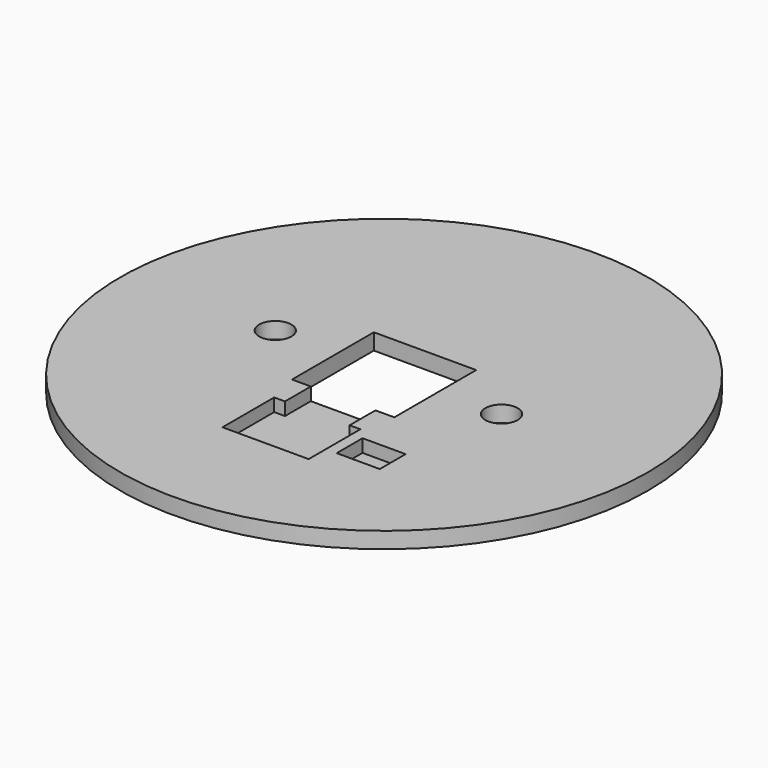
from build123d import *

# Parameters (mm, degrees)
F0_R     = 24.5
F0_W     = 4
F0_H     = 3
F0_R_2   = 1.5
F0_W_2   = 6
F1_DEPTH = 0.3
F2_DEPTH = 1.5


with BuildPart() as f1:
    # F0 (on Top) → F1 (new body)
    with BuildSketch(Plane.XY):
        Circle(F0_R)
        Polygon((-4.75, -4.75), (-4.75, 4.75), (4.75, 4.75), (4.75, -4.75), (3, -4.75), (3, -7.75), (4, -7.75), (4, -13.75), (-4, -13.75), (-4, -7.75), (-3, -7.75), (-3, -4.75), align=None, mode=Mode.SUBTRACT)
        with Locations((7, -10.25)):
            Rectangle(F0_W, F0_H, mode=Mode.SUBTRACT)
        with Locations((-10.5, 0.5)):
            Circle(F0_R_2, mode=Mode.SUBTRACT)
        with Locations((10.5, 0.5)):
            Circle(F0_R_2, mode=Mode.SUBTRACT)
        with Locations((7, -10.25)):
            Rectangle(F0_W, F0_H)
        Polygon((3, -7.75), (-3, -7.75), (-4, -7.75), (-4, -13.75), (4, -13.75), (4, -7.75), align=None)
        with Locations((0, -6.25)):
            Rectangle(F0_W_2, F0_H)
    extrude(amount=F1_DEPTH)

    # F0 (on Top) → F2 (join)
    with BuildSketch(Plane.XY):
        Circle(F0_R)
        Polygon((-4.75, -4.75), (-4.75, 4.75), (4.75, 4.75), (4.75, -4.75), (3, -4.75), (3, -7.75), (4, -7.75), (4, -13.75), (-4, -13.75), (-4, -7.75), (-3, -7.75), (-3, -4.75), align=None, mode=Mode.SUBTRACT)
        with Locations((7, -10.25)):
            Rectangle(F0_W, F0_H, mode=Mode.SUBTRACT)
        with Locations((-10.5, 0.5)):
            Circle(F0_R_2, mode=Mode.SUBTRACT)
        with Locations((10.5, 0.5)):
            Circle(F0_R_2, mode=Mode.SUBTRACT)
    extrude(amount=F2_DEPTH)


solid = f1.part
